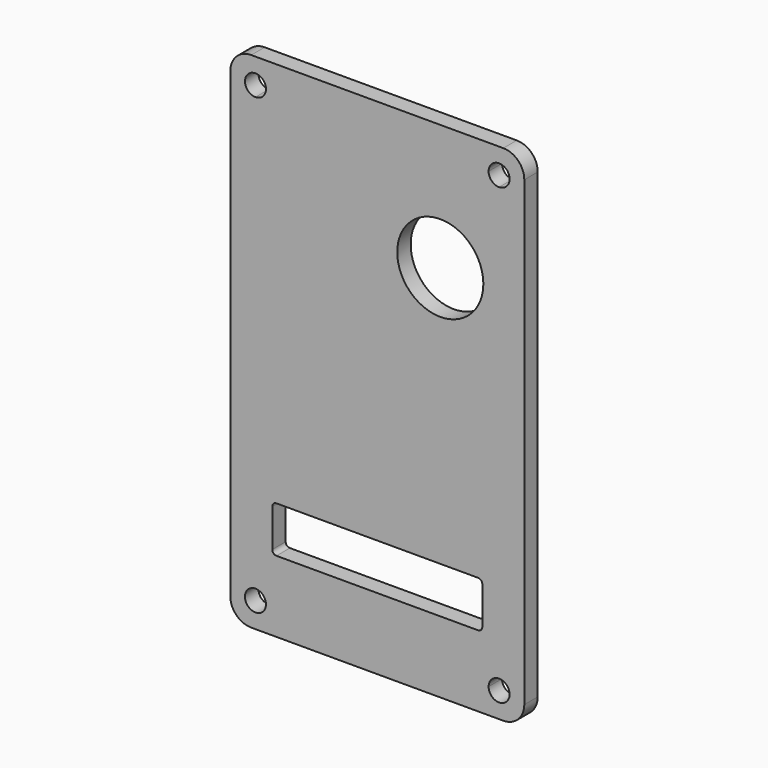
from build123d import *

# Parameters (mm, degrees)
F0_W     = 70
F0_H     = 120
F1_DEPTH = 4
F2_R     = 5
F3_R     = 10.25
F4_DEPTH = 25
F5_W     = 50
F5_H     = 11
F6_DEPTH = 25
F7_R     = 1


with BuildPart() as f1:
    # F0 (on Front) → F1 (new body)
    with BuildSketch(Plane.XZ):
        Rectangle(F0_W, F0_H)
        with BuildLine():
            ThreePointArc((-29, 51.5), (-30.767766953, 55.767766953), (-26.5, 54))
            Line((-26.5, 54), (26.5, 54))
            ThreePointArc((26.5, 54), (29, 56.5), (31.5, 54))
            ThreePointArc((31.5, 54), (30.767766953, 52.232233047), (29, 51.5))
            Line((29, 51.5), (29, -51.5))
            ThreePointArc((29, -51.5), (30.767766953, -52.232233047), (31.5, -54))
            ThreePointArc((31.5, -54), (29, -56.5), (26.5, -54))
            Line((26.5, -54), (-26.5, -54))
            ThreePointArc((-26.5, -54), (-30.767766953, -55.767766953), (-29, -51.5))
            Line((-29, -51.5), (-29, 51.5))
        make_face(mode=Mode.SUBTRACT)
        with BuildLine():
            Line((26.5, 54), (-26.5, 54))
            ThreePointArc((-26.5, 54), (-27.232233047, 52.232233047), (-29, 51.5))
            Line((-29, 51.5), (-29, -51.5))
            ThreePointArc((-29, -51.5), (-27.232233047, -52.232233047), (-26.5, -54))
            Line((-26.5, -54), (26.5, -54))
            ThreePointArc((26.5, -54), (27.232233047, -52.232233047), (29, -51.5))
            Line((29, -51.5), (29, 51.5))
            ThreePointArc((29, 51.5), (27.232233047, 52.232233047), (26.5, 54))
        make_face()
    extrude(amount=F1_DEPTH)

    # F2
    f2_edges = [f1.edges().sort_by_distance(p)[0] for p in [
        (-35, -2, 60),
        (35, -2, 60),
        (-35, -2, -60),
        (35, -2, -60),
    ]]
    fillet(f2_edges, radius=F2_R)

    # F3 (on face) → F4 (cut)
    with BuildSketch(Plane.XZ.offset(4)):
        with Locations((15, 30)):
            Circle(F3_R)
    extrude(amount=-F4_DEPTH, mode=Mode.SUBTRACT)

    # F5 (on face) → F6 (cut)
    with BuildSketch(Plane.XZ.offset(4)):
        with Locations((0, -37.5)):
            Rectangle(F5_W, F5_H)
    extrude(amount=-F6_DEPTH, mode=Mode.SUBTRACT)

    # F7
    f7_edges = [f1.edges().sort_by_distance(p)[0] for p in [
        (-25, -2, -43),
        (-25, -2, -32),
        (25, -2, -32),
        (25, -2, -43),
    ]]
    fillet(f7_edges, radius=F7_R)


solid = f1.part
